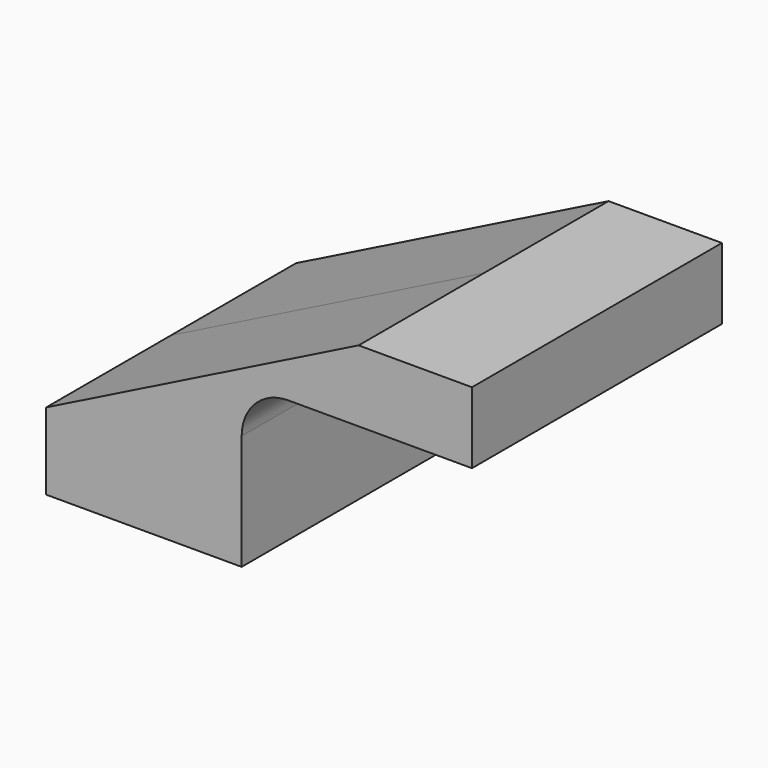
from build123d import *

# Parameters (mm, degrees)
F0_W     = 95.405914
F0_H     = 37.44905
F2_DEPTH = 76.2


with BuildPart() as f2:
    # F0 (on Front) → F2 (new body, symmetric)
    with BuildSketch(Plane.XZ):
        Rectangle(F0_W, F0_H)
        Polygon((160.050124, 94.960097), (104.768187, 94.960097), (104.768187, 60.18598), (115.467921, 60.18598), (160.050124, 60.18598), align=None)
        with BuildLine():
            Line((-47.702957, 18.724525), (47.702957, 18.724525))
            Line((47.702957, 18.724525), (47.702957, 37.462771))
            ThreePointArc((47.702957, 37.462771), (54.358431, 53.530506), (70.426166, 60.18598))
            Line((70.426166, 60.18598), (104.768187, 60.18598))
            Line((104.768187, 60.18598), (104.768187, 94.960097))
            add(Edge.make_bspline(
                [(-47.702957, 18.724525), (3.120758, 44.136383), (53.944472, 69.54824), (104.768187, 94.960097)],
                knots=[0, 0, 0, 0, 170.467921, 170.467921, 170.467921, 170.467921], degree=3))
        make_face()
    extrude(amount=F2_DEPTH, both=True)


solid = f2.part
